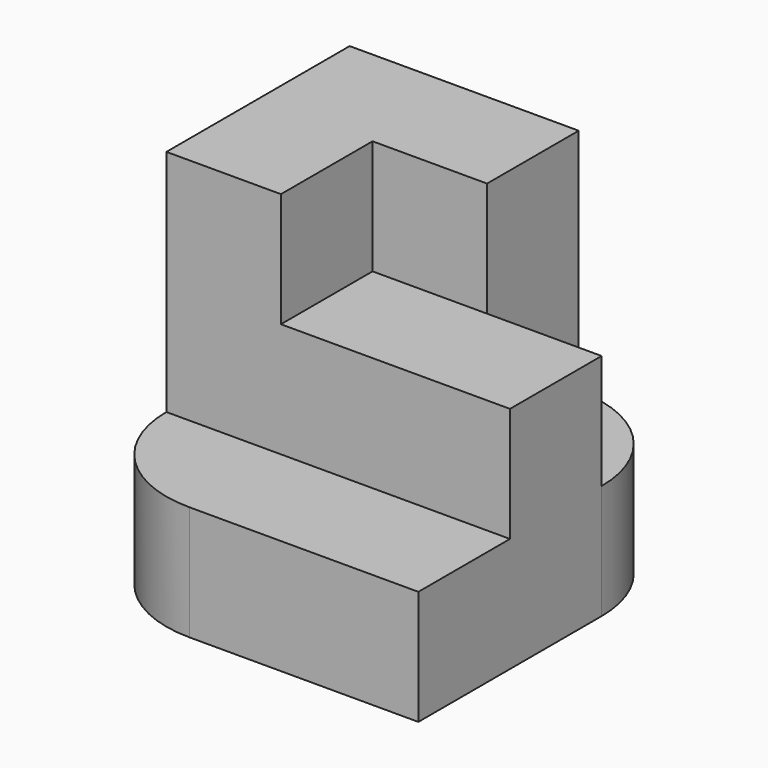
from build123d import *

# Parameters (mm, degrees)
F0_W     = 25.4
F0_H     = 25.4
F1_DEPTH = 76.2
F2_DEPTH = 50.8
F3_DEPTH = 25.4


with BuildPart() as f1:
    # F0 (on Top) → F1 (new body)
    with BuildSketch(Plane.XY):
        with Locations((12.7, 63.5)):
            Rectangle(F0_W, F0_H)
        with BuildLine():
            ThreePointArc((25.4, 50.8), (7.4394877579, 43.3605122421), (0, 25.4))
            Line((0, 25.4), (25.4, 25.4))
            Line((25.4, 25.4), (25.4, 50.8))
        make_face()
        with BuildLine():
            Line((0, 50.8), (0, 25.4))
            ThreePointArc((0, 25.4), (7.4394877579, 43.3605122421), (25.4, 50.8))
            Line((25.4, 50.8), (0, 50.8))
        make_face()
        with BuildLine():
            ThreePointArc((50.8, 76.2), (32.8394877579, 68.7605122421), (25.4, 50.8))
            Line((25.4, 50.8), (50.8, 50.8))
            Line((50.8, 50.8), (50.8, 76.2))
        make_face()
        with BuildLine():
            Line((25.4, 76.2), (25.4, 50.8))
            ThreePointArc((25.4, 50.8), (32.8394877579, 68.7605122421), (50.8, 76.2))
            Line((50.8, 76.2), (25.4, 76.2))
        make_face()
    extrude(amount=F1_DEPTH)

    # F0 (on Top) → F2 (join)
    with BuildSketch(Plane.XY):
        with BuildLine():
            ThreePointArc((25.4, 50.8), (43.3605122421, 43.3605122421), (50.8, 25.4))
            Line((50.8, 25.4), (50.8, 50.8))
            Line((50.8, 50.8), (25.4, 50.8))
        make_face()
        with BuildLine():
            ThreePointArc((25.4, 50.8), (32.8394877579, 32.8394877579), (50.8, 25.4))
            ThreePointArc((50.8, 25.4), (43.3605122421, 43.3605122421), (25.4, 50.8))
        make_face()
        with BuildLine():
            Line((25.4, 50.8), (25.4, 25.4))
            Line((25.4, 25.4), (50.8, 25.4))
            ThreePointArc((50.8, 25.4), (32.8394877579, 32.8394877579), (25.4, 50.8))
        make_face()
        with BuildLine():
            Line((50.8, 50.8), (50.8, 25.4))
            ThreePointArc((50.8, 25.4), (68.7605122421, 32.8394877579), (76.2, 50.8))
            Line((76.2, 50.8), (50.8, 50.8))
        make_face()
        with BuildLine():
            ThreePointArc((76.2, 50.8), (68.7605122421, 32.8394877579), (50.8, 25.4))
            Line((50.8, 25.4), (76.2, 25.4))
            Line((76.2, 25.4), (76.2, 50.8))
        make_face()
    extrude(amount=F2_DEPTH)

    # F0 (on Top) → F3 (join)
    with BuildSketch(Plane.XY):
        with Locations((63.5, 12.7)):
            Rectangle(F0_W, F0_H)
        with BuildLine():
            Line((25.4, 25.4), (25.4, 0))
            ThreePointArc((25.4, 0), (43.3605122421, 7.4394877579), (50.8, 25.4))
            Line((50.8, 25.4), (25.4, 25.4))
        make_face()
        with BuildLine():
            ThreePointArc((50.8, 25.4), (43.3605122421, 7.4394877579), (25.4, 0))
            Line((25.4, 0), (50.8, 0))
            Line((50.8, 0), (50.8, 25.4))
        make_face()
        with BuildLine():
            Line((50.8, 76.2), (50.8, 50.8))
            Line((50.8, 50.8), (76.2, 50.8))
            ThreePointArc((76.2, 50.8), (68.7605122421, 68.7605122421), (50.8, 76.2))
        make_face()
        with BuildLine():
            ThreePointArc((0, 25.4), (7.4394877579, 7.4394877579), (25.4, 0))
            Line((25.4, 0), (25.4, 25.4))
            Line((25.4, 25.4), (0, 25.4))
        make_face()
    extrude(amount=F3_DEPTH)


solid = f1.part
